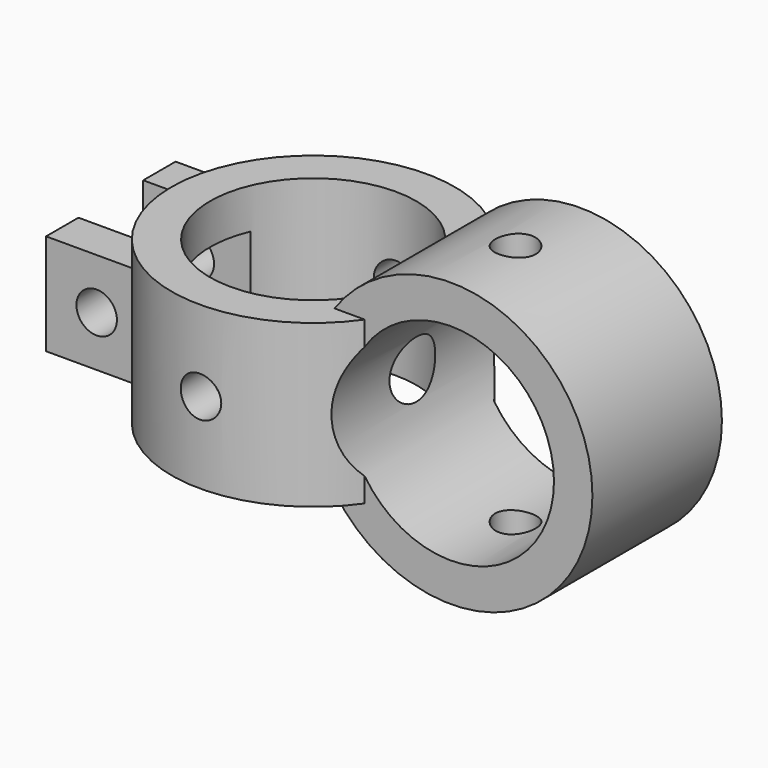
from build123d import *

# Parameters (mm, degrees)
CYLINDER004_R          = 2
CYLINDER004_DEPTH      = 16
CYLINDER004_ROLL_ANGLE = -90
BOX001_W               = 5
BOX001_H               = 8
BOX001_DEPTH           = 8
CYLINDER006_R          = 2
CYLINDER006_DEPTH      = 30
CYLINDER006_ROLL_ANGLE = -90
CYLINDER003_R          = 10.2
CYLINDER003_DEPTH      = 20
CYLINDER003_ROLL_ANGLE = -90
CYLINDER005_R          = 2
CYLINDER005_DEPTH      = 30
CYLINDER002_R          = 10.2
CYLINDER002_DEPTH      = 28
BOX_W                  = 10
BOX_H                  = 4
BOX_DEPTH              = 10
BOX002_W               = 10
BOX002_H               = 4
BOX002_DEPTH           = 10
CYLINDER001_R          = 14
CYLINDER001_DEPTH      = 16
CYLINDER001_ROLL_ANGLE = -90
CYLINDER_R             = 14
CYLINDER_DEPTH         = 16


with BuildPart() as cylinder004:
    # Cylinder004 → Cylinder004 (new body)
    with BuildSketch(Plane.XY):
        Circle(CYLINDER004_R)
    extrude(amount=CYLINDER004_DEPTH)


with BuildPart() as cylinder004_1:
    # Cylinder004 roll: moved
    add(cylinder004.part.rotate(Axis((0, 0, 0), (1, 0, 0)), CYLINDER004_ROLL_ANGLE))


with BuildPart() as cylinder004_2:
    # Cylinder004 placement: moved
    add(cylinder004_1.part.moved(Location((-25, -8, 0))))


with BuildPart() as cube001:
    # Box001 → Box001 (new body)
    with BuildSketch(Plane(origin=(-24, -4, -4), x_dir=(1, 0, 0), z_dir=(0, 0, 1))):
        with Locations((2.5, 4)):
            Rectangle(BOX001_W, BOX001_H)
    extrude(amount=BOX001_DEPTH)


with BuildPart() as cylinder006:
    # Cylinder006 → Cylinder006 (new body)
    with BuildSketch(Plane.XY):
        Circle(CYLINDER006_R)
    extrude(amount=CYLINDER006_DEPTH)


with BuildPart() as cylinder006_1:
    # Cylinder006 roll: moved
    add(cylinder006.part.rotate(Axis((0, 0, 0), (1, 0, 0)), CYLINDER006_ROLL_ANGLE))


with BuildPart() as cylinder006_2:
    # Cylinder006 placement: moved
    add(cylinder006_1.part.moved(Location((-10, -15, 0))))


with BuildPart() as cylinder003:
    # Cylinder003 → Cylinder003 (new body)
    with BuildSketch(Plane.XY):
        Circle(CYLINDER003_R)
    extrude(amount=CYLINDER003_DEPTH)


with BuildPart() as cylinder003_1:
    # Cylinder003 roll: moved
    add(cylinder003.part.rotate(Axis((0, 0, 0), (1, 0, 0)), CYLINDER003_ROLL_ANGLE))


with BuildPart() as cylinder003_2:
    # Cylinder003 placement: moved
    add(cylinder003_1.part.moved(Location((10, -10, 0))))


with BuildPart() as cylinder005:
    # Cylinder005 → Cylinder005 (new body)
    with BuildSketch(Plane(origin=(10, 0, -15), x_dir=(1, 0, 0), z_dir=(0, 0, 1))):
        Circle(CYLINDER005_R)
    extrude(amount=CYLINDER005_DEPTH)


with BuildPart() as negative_fusion:
    # Cylinder002 → Cylinder002 (new body)
    with BuildSketch(Plane(origin=(-10, 0, -10), x_dir=(1, 0, 0), z_dir=(0, 0, 1))):
        Circle(CYLINDER002_R)
    extrude(amount=CYLINDER002_DEPTH)

    # Fusion001: union Cylinder004, Cube001, Cylinder006, Cylinder003, Cylinder005
    add(cylinder004_2.part)
    add(cube001.part)
    add(cylinder006_2.part)
    add(cylinder003_2.part)
    add(cylinder005.part)


with BuildPart() as cube:
    # Box → Box (new body)
    with BuildSketch(Plane(origin=(-30, -8, -5), x_dir=(1, 0, 0), z_dir=(0, 0, 1))):
        with Locations((5, 2)):
            Rectangle(BOX_W, BOX_H)
    extrude(amount=BOX_DEPTH)


with BuildPart() as cube002:
    # Box002 → Box002 (new body)
    with BuildSketch(Plane(origin=(-30, 4, -5), x_dir=(1, 0, 0), z_dir=(0, 0, 1))):
        with Locations((5, 2)):
            Rectangle(BOX002_W, BOX002_H)
    extrude(amount=BOX002_DEPTH)


with BuildPart() as cylinder001:
    # Cylinder001 → Cylinder001 (new body)
    with BuildSketch(Plane.XY):
        Circle(CYLINDER001_R)
    extrude(amount=CYLINDER001_DEPTH)


with BuildPart() as cylinder001_1:
    # Cylinder001 roll: moved
    add(cylinder001.part.rotate(Axis((0, 0, 0), (1, 0, 0)), CYLINDER001_ROLL_ANGLE))


with BuildPart() as cylinder001_2:
    # Cylinder001 placement: moved
    add(cylinder001_1.part.moved(Location((10, -8, 0))))


with BuildPart() as cut:
    # Cylinder → Cylinder (new body)
    with BuildSketch(Plane(origin=(-10, 0, -8), x_dir=(1, 0, 0), z_dir=(0, 0, 1))):
        Circle(CYLINDER_R)
    extrude(amount=CYLINDER_DEPTH)

    # Fusion: union Cube, Cube002, Cylinder001
    add(cube.part)
    add(cube002.part)
    add(cylinder001_2.part)

    # Cut: cut Negative Fusion
    add(negative_fusion.part, mode=Mode.SUBTRACT)


solid = cut.part
